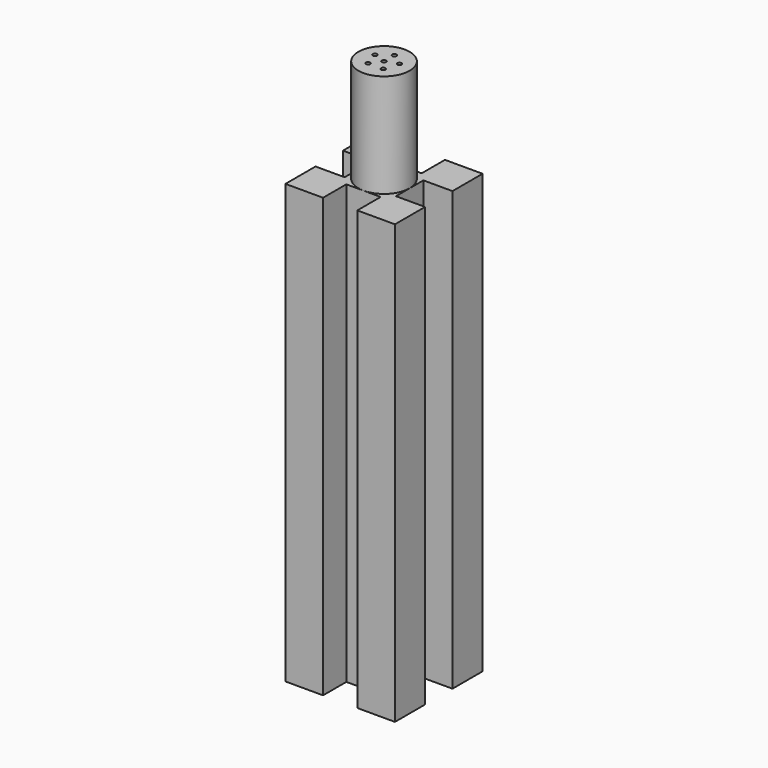
from build123d import *

# Parameters (mm, degrees)
F1_DEPTH = 50.8
F2_R     = 2.975
F3_DEPTH = 12
F4_R     = 0.25
F5_DEPTH = 17


with BuildPart() as f1:
    # F0 (on Top) → F1 (new body)
    with BuildSketch(Plane.XY):
        Polygon((-1.9875, 6.35), (-6.35, 6.35), (-6.35, 1.9875), (-2.975, 1.9875), (-2.975, -1.9875), (-6.35, -1.9875), (-6.35, -6.35), (-1.9875, -6.35), (-1.9875, -2.975), (1.9875, -2.975), (1.9875, -6.35), (6.35, -6.35), (6.35, -1.9875), (2.975, -1.9875), (2.975, 1.9875), (6.35, 1.9875), (6.35, 6.35), (1.9875, 6.35), (1.9875, 2.975), (-1.9875, 2.975), align=None)
    extrude(amount=F1_DEPTH)

    # F2 (on face) → F3 (join)
    with BuildSketch(Plane.XY.offset(50.8)):
        Circle(F2_R)
    extrude(amount=F3_DEPTH)

    # F4 (on face) → F5 (cut)
    with BuildSketch(Plane.XY.offset(62.8)):
        with Locations((0, 1.5)):
            Circle(F4_R)
        with Locations((-1.426585, 0.463525)):
            Circle(F4_R)
        with Locations((-0.881678, -1.213525)):
            Circle(F4_R)
        with Locations((0.881678, -1.213525)):
            Circle(F4_R)
        Circle(F4_R)
        with Locations((1.426585, 0.463525)):
            Circle(F4_R)
    extrude(amount=-F5_DEPTH, mode=Mode.SUBTRACT)


solid = f1.part
